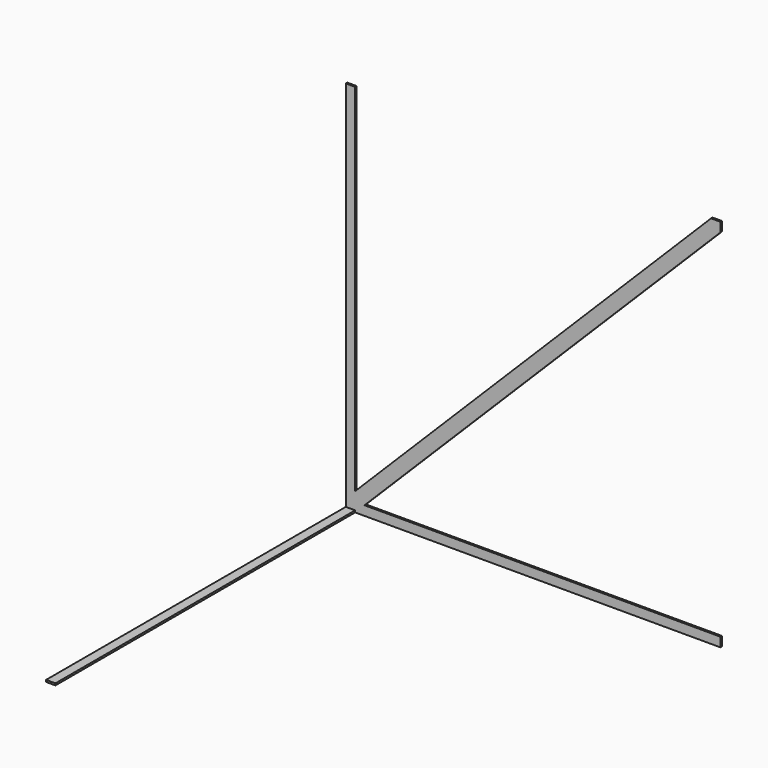
from build123d import *

# Parameters (mm, degrees)
F1_DEPTH = 1
F2_W     = 5
F2_H     = 1
F3_DEPTH = 200


with BuildPart() as f1:
    # F0 (on Front) → F1 (new body)
    with BuildSketch(Plane.XZ):
        Polygon((0, 5), (0, 0), (5, 0), (200, 0), (200, 5), (10, 5), (200, 195), (200, 200), (195, 200), (5, 10), (5, 200), (0, 200), align=None)
    extrude(amount=F1_DEPTH)

    # F2 (on face) → F3 (join)
    with BuildSketch(Plane.XZ.offset(1)):
        with Locations((2.5, 0.5)):
            Rectangle(F2_W, F2_H)
    extrude(amount=F3_DEPTH)


solid = f1.part
